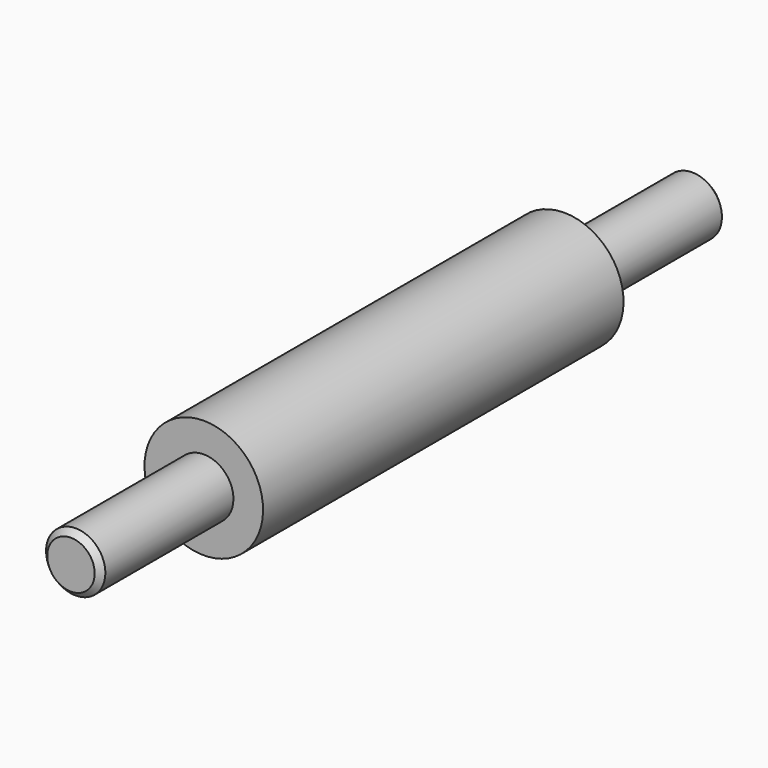
from build123d import *

# Parameters (mm, degrees)
CHAMFER_SIZE = 0.5


with BuildPart() as part:
    # Sketch → Revolution (revolve)
    with BuildSketch(Plane.YZ):
        Polygon((-33, 0), (-33, 2.5), (-19, 2.5), (-19, 5), (19, 5), (19, 2.5), (33, 2.5), (33, 0), align=None)
    revolve(axis=Axis((0, 0, 0), (0, 1, 0)))

    # Chamfer
    chamfer_edges = [part.edges().sort_by_distance(p)[0] for p in [
        (0, 33, -2.5),
        (0, -33, -2.5),
    ]]
    chamfer(chamfer_edges, length=CHAMFER_SIZE)


solid = part.part
